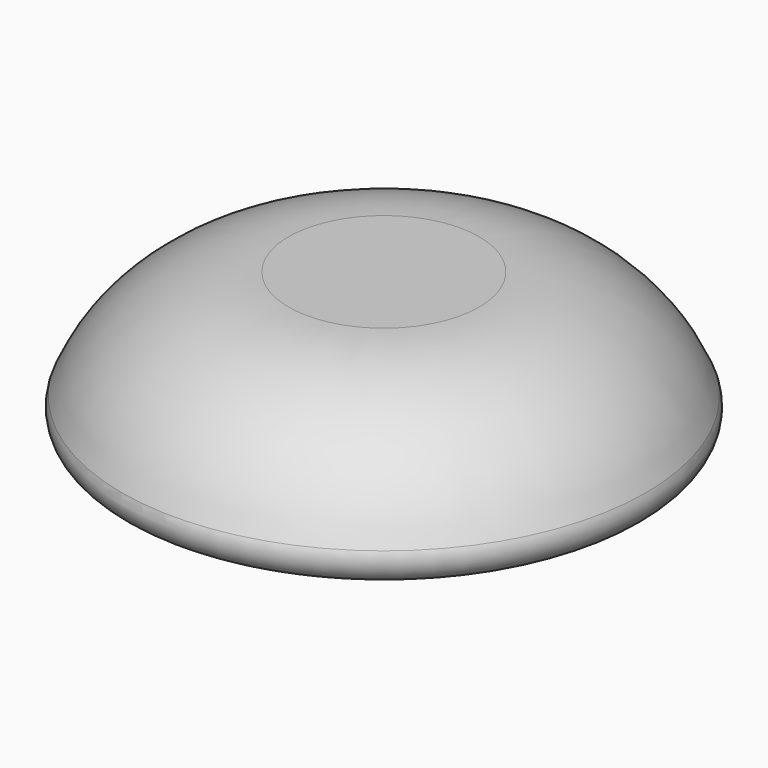
from build123d import *


with BuildPart() as f1:
    # F0 (on Front) → F1 (revolve)
    with BuildSketch(Plane.XZ):
        with BuildLine():
            ThreePointArc((20.117905, -12), (21.820673, -11.086017), (22, -9.161796))
            ThreePointArc((22, -9.161796), (16.396052, -2.447613), (8, 0))
            Line((8, 0), (0, 0))
            Line((0, 0), (0, -15))
            ThreePointArc((0, -15), (7.018514, -16.159684), (13.782534, -13.956862))
            ThreePointArc((13.782534, -13.956862), (15.760848, -13.433394), (17.22137, -12))
            Line((17.22137, -12), (20.117905, -12))
        make_face()
    revolve(axis=Axis((0, 0, -7.5), (0, 0, -1)))


solid = f1.part
